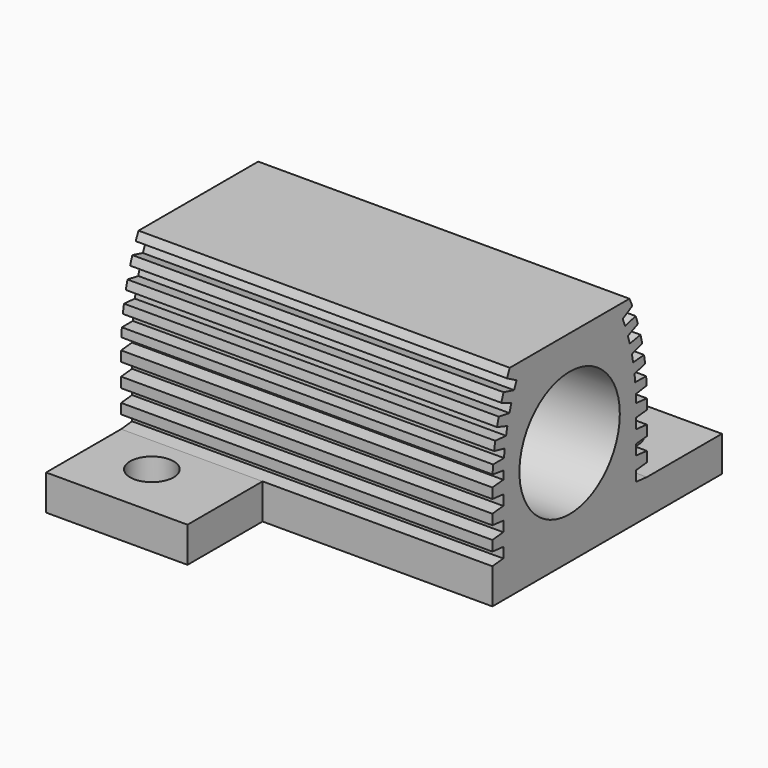
from build123d import *

# Parameters (mm, degrees)
SKETCH_R         = 4.615
EXTRUDE_DEPTH    = 13.65
SKETCH001_W      = 10.4
SKETCH001_H      = 6.9
SKETCH001_R      = 1.6
EXTRUDE001_DEPTH = 2.6


with BuildPart() as body_main:
    # Sketch → Extrude (new body, symmetric)
    with BuildSketch(Plane.YZ):
        with BuildLine():
            Line((-5.5, 14.8), (5.5, 14.8))
            ThreePointArc((5.760824, 14.2224), (5.633177, 14.512448), (5.5, 14.8))
            Line((4.878487, 13.741903), (5.760824, 14.2224))
            ThreePointArc((5.099264, 13.188869), (4.991522, 13.466442), (4.878487, 13.741903))
            Line((6.069929, 13.448108), (5.099264, 13.188869))
            ThreePointArc((6.278586, 12.849682), (6.177122, 13.149894), (6.069929, 13.448108))
            Line((5.357169, 12.449197), (6.278586, 12.849682))
            ThreePointArc((5.528111, 11.878788), (5.44537, 12.164811), (5.357169, 12.449197))
            Line((6.517918, 12.051062), (5.528111, 11.878788))
            ThreePointArc((6.672768, 11.436511), (6.598284, 11.744528), (6.517918, 12.051062))
            Line((5.719511, 11.119185), (6.672768, 11.436511))
            ThreePointArc((5.839274, 10.53588), (5.782184, 10.828106), (5.719511, 11.119185))
            Line((6.840447, 10.619837), (5.839274, 10.53588))
            ThreePointArc((6.940275, 9.993989), (6.893357, 10.307391), (6.840447, 10.619837))
            Line((5.962664, 9.762314), (6.940275, 9.993989))
            ThreePointArc((6.03031, 9.170696), (5.999319, 9.466829), (5.962664, 9.762314))
            Line((7.034984, 9.165675), (6.03031, 9.170696))
            ThreePointArc((7.079005, 8.533446), (7.06002, 8.849771), (7.034984, 9.165675))
            Line((6.08472, 8.389243), (7.079005, 8.533446))
            ThreePointArc((6.099716, 7.793958), (6.095067, 8.091672), (6.08472, 8.389243))
            Line((7.1, 7.7), (6.099716, 7.793958))
            Line((7.1, 7.7), (7.1, 6.95))
            Line((7.1, 6.95), (6.1, 6.85))
            Line((6.1, 6.85), (6.1, 6.1))
            Line((6.1, 6.1), (7.1, 6))
            Line((7.1, 6), (7.1, 5.25))
            Line((7.1, 5.25), (6.1, 5.15))
            Line((6.1, 5.15), (6.1, 4.4))
            Line((6.1, 4.4), (7.1, 4.3))
            Line((7.1, 4.3), (7.1, 3.55))
            Line((7.1, 3.55), (6.1, 3.45))
            Line((6.1, 3.45), (6.1, 2.7))
            Line((6.1, 2.7), (7.1, 2.6))
            Line((7.1, 2.6), (7.1, 0))
            Line((7.1, 0), (-7.1, 0))
            Line((-7.1, 0), (-7.1, 2.6))
            Line((-7.1, 2.6), (-6.1, 2.7))
            Line((-6.1, 2.7), (-6.1, 3.45))
            Line((-6.1, 3.45), (-7.1, 3.55))
            Line((-7.1, 3.55), (-7.1, 4.3))
            Line((-7.1, 4.3), (-6.1, 4.4))
            Line((-6.1, 4.4), (-6.1, 5.15))
            Line((-6.1, 5.15), (-7.1, 5.25))
            Line((-7.1, 5.25), (-7.1, 6))
            Line((-7.1, 6), (-6.1, 6.1))
            Line((-6.1, 6.1), (-6.1, 6.85))
            Line((-6.1, 6.85), (-7.1, 6.95))
            Line((-7.1, 6.95), (-7.1, 7.7))
            Line((-7.1, 7.7), (-6.099716, 7.793958))
            ThreePointArc((-6.08472, 8.389243), (-6.095067, 8.091672), (-6.099716, 7.793958))
            Line((-6.08472, 8.389243), (-7.079005, 8.533446))
            ThreePointArc((-7.034984, 9.165675), (-7.06002, 8.849771), (-7.079005, 8.533446))
            Line((-7.034984, 9.165675), (-6.03031, 9.170696))
            ThreePointArc((-5.962664, 9.762314), (-5.999319, 9.466829), (-6.03031, 9.170696))
            Line((-5.962664, 9.762314), (-6.940275, 9.993989))
            ThreePointArc((-6.840447, 10.619837), (-6.893357, 10.307391), (-6.940275, 9.993989))
            Line((-6.840447, 10.619837), (-5.839274, 10.53588))
            ThreePointArc((-5.719511, 11.119185), (-5.782184, 10.828106), (-5.839274, 10.53588))
            Line((-5.719511, 11.119185), (-6.672768, 11.436511))
            ThreePointArc((-6.517918, 12.051062), (-6.598284, 11.744528), (-6.672768, 11.436511))
            Line((-6.517918, 12.051062), (-5.528111, 11.878788))
            ThreePointArc((-5.357169, 12.449197), (-5.44537, 12.164811), (-5.528111, 11.878788))
            Line((-5.357169, 12.449197), (-6.278586, 12.849682))
            ThreePointArc((-6.069929, 13.448108), (-6.177122, 13.149894), (-6.278586, 12.849682))
            Line((-6.069929, 13.448108), (-5.099264, 13.188869))
            ThreePointArc((-4.878487, 13.741903), (-4.991522, 13.466442), (-5.099264, 13.188869))
            Line((-4.878487, 13.741903), (-5.760824, 14.2224))
            ThreePointArc((-5.5, 14.8), (-5.633177, 14.512448), (-5.760824, 14.2224))
        make_face()
        with Locations((0, 7.7)):
            Circle(SKETCH_R, mode=Mode.SUBTRACT)
    extrude(amount=EXTRUDE_DEPTH, both=True)


with BuildPart() as body:
    # Sketch001 → Extrude001 (new body)
    with BuildSketch(Plane.XY):
        with Locations((8.45, 10.55)):
            Rectangle(SKETCH001_W, SKETCH001_H)
        with Locations((9.15, 9.9)):
            Circle(SKETCH001_R, mode=Mode.SUBTRACT)
        with Locations((-8.45, -10.55)):
            Rectangle(SKETCH001_W, SKETCH001_H)
        with Locations((-9.15, -9.9)):
            Circle(SKETCH001_R, mode=Mode.SUBTRACT)
    extrude(amount=EXTRUDE001_DEPTH)

    # Fusion: union Body Main
    add(body_main.part)


solid = body.part
